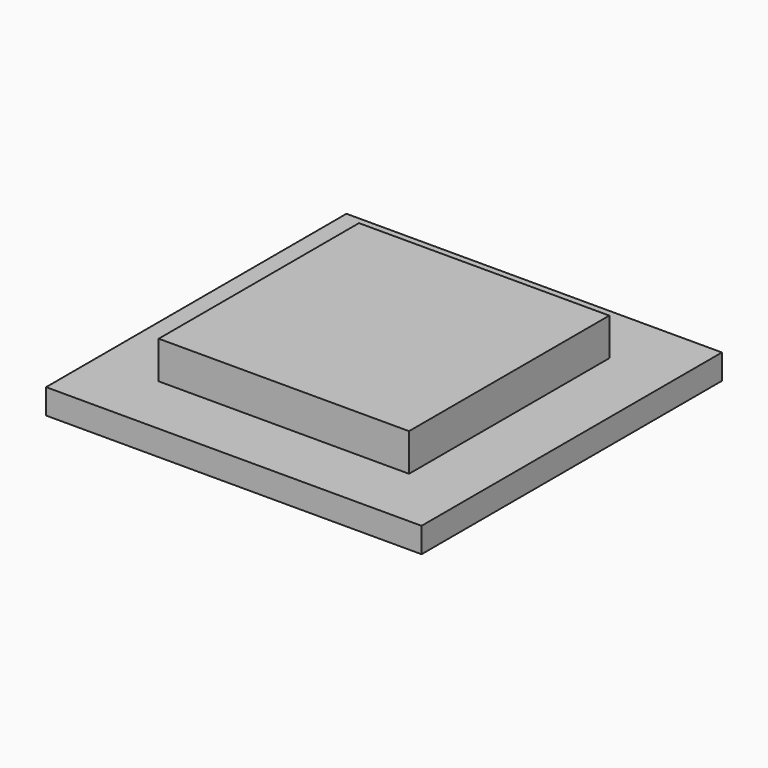
from build123d import *

# Parameters (mm, degrees)
F0_W     = 30
F0_H     = 30
F1_DEPTH = 5
F2_W     = 30
F2_H     = 30
F2_W_2   = 20
F2_H_2   = 20
F3_DEPTH = 3


with BuildPart() as f1:
    # F0 (on Top) → F1 (new body)
    with BuildSketch(Plane.XY):
        Rectangle(F0_W, F0_H)
    extrude(amount=F1_DEPTH)

    # F2 (on face) → F3 (cut)
    with BuildSketch(Plane.XY.offset(5)):
        Rectangle(F2_W, F2_H)
        Rectangle(F2_W_2, F2_H_2, mode=Mode.SUBTRACT)
    extrude(amount=-F3_DEPTH, mode=Mode.SUBTRACT)


solid = f1.part
